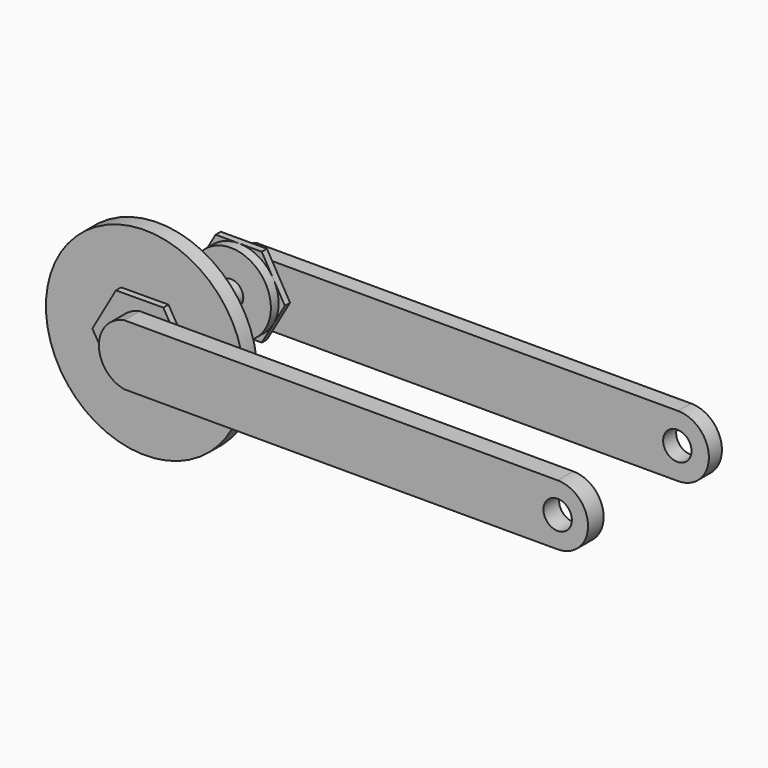
from build123d import *

# Parameters (mm, degrees)
F0_R      = 30.4787407236
F1_DEPTH  = 5
F2_R      = 12.323577598
F3_DEPTH  = 3
F4_R      = 3.8165326263
F5_DEPTH  = 25
F6_R      = 12.2992477122
F7_DEPTH  = 3
F9_DEPTH  = 2
F10_W     = 133.2869231701
F10_H     = 18.6895169318
F11_DEPTH = 6
F13_DEPTH = 2
F14_W     = 133.5
F14_H     = 19
F15_DEPTH = 5
F16_R     = 4.3615258045
F17_DEPTH = 55


with BuildPart() as f1:
    # F0 (on Front) → F1 (new body)
    with BuildSketch(Plane.XZ):
        Circle(F0_R)
    extrude(amount=F1_DEPTH)

    # F2 (on face) → F3 (join)
    with BuildSketch(Plane(origin=(0, 0, 0), x_dir=(-1, 0, 0), z_dir=(0, 1, 0))):
        Circle(F2_R)
    extrude(amount=F3_DEPTH)

    # F4 (on face) → F5 (join)
    with BuildSketch(Plane(origin=(0, 3, 0), x_dir=(-1, 0, 0), z_dir=(0, 1, 0))):
        Circle(F4_R)
    extrude(amount=F5_DEPTH)

    # F6 (on face) → F7 (join)
    with BuildSketch(Plane(origin=(0, 28, 0), x_dir=(-1, 0, 0), z_dir=(0, 1, 0))):
        Circle(F6_R)
    extrude(amount=F7_DEPTH)

    # F8 (on face) → F9 (join)
    with BuildSketch(Plane.XZ.offset(5)):
        Polygon((-7.3528563089, 12.591948495), (-14.5813754343, -0.0717861064), (-7.2285191254, -12.6637346014), (7.3528563089, -12.591948495), (14.5813754343, 0.0717861064), (7.2285191254, 12.6637346014), align=None)
    extrude(amount=F9_DEPTH)

    # F10 (on face) → F11 (join)
    with BuildSketch(Plane.XZ.offset(7)):
        with Locations((66.643461585, 0)):
            Rectangle(F10_W, F10_H)
        with BuildLine():
            Line((0, -9.3447584659), (0, 9.3447584659))
            ThreePointArc((0, 9.3447584659), (-7.7820729992, 0), (0, -9.3447584659))
        make_face()
        with BuildLine():
            ThreePointArc((133.2869231701, -9.3447584659), (142.631681636, 0), (133.2869231701, 9.3447584659))
            Line((133.2869231701, 9.3447584659), (133.2869231701, -9.3447584659))
        make_face()
    extrude(amount=F11_DEPTH)

    # F12 (on face) → F13 (join)
    with BuildSketch(Plane(origin=(0, 31, 0), x_dir=(-1, 0, 0), z_dir=(0, 1, 0))):
        Polygon((7.1009739775, 12.2992477122), (-7.1009739775, 12.2992477122), (-14.2019479549, 0), (-7.1009739775, -12.2992477122), (7.1009739775, -12.2992477122), (14.2019479549, 0), align=None)
    extrude(amount=F13_DEPTH)

    # F14 (on face) → F15 (join)
    with BuildSketch(Plane(origin=(0, 33, 0), x_dir=(-1, 0, 0), z_dir=(0, 1, 0))):
        with Locations((-66.75, 0)):
            Rectangle(F14_W, F14_H)
        with BuildLine():
            Line((0, 9.5), (0, -9.5))
            ThreePointArc((0, -9.5), (7.6147800585, 0), (0, 9.5))
        make_face()
        with BuildLine():
            ThreePointArc((-133.5, 9.5), (-143, 0), (-133.5, -9.5))
            Line((-133.5, -9.5), (-133.5, 9.5))
        make_face()
    extrude(amount=F15_DEPTH)

    # F16 (on face) → F17 (cut)
    with BuildSketch(Plane.XZ.offset(13)):
        with Locations((133.2869231701, 0)):
            Circle(F16_R)
    extrude(amount=-F17_DEPTH, mode=Mode.SUBTRACT)


solid = f1.part
